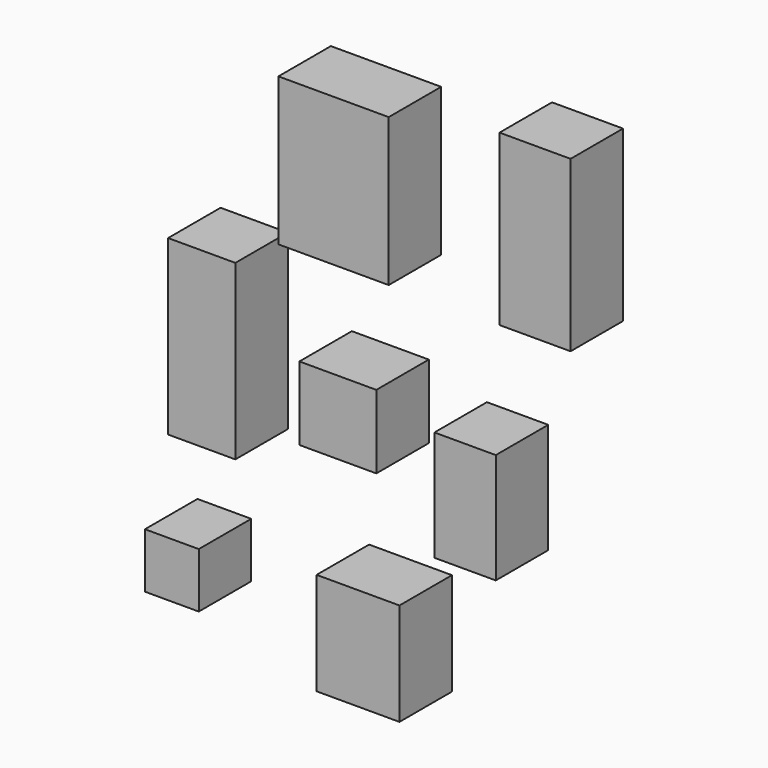
from build123d import *

# Parameters (mm, degrees)
F0_W     = 42.713653
F0_H     = 57.261646
F0_W_2   = 27.503371
F0_H_2   = 65.611295
F0_W_3   = 23.75295
F0_H_3   = 42.732641
F0_W_4   = 32.087333
F0_H_4   = 39.701626
F0_W_5   = 29.795386
F0_H_5   = 28.486781
F0_W_6   = 26.04492
F0_H_6   = 66.996962
F0_W_7   = 20.835944
F0_H_7   = 21.299526
F1_DEPTH = 25.4


with BuildPart() as f1:
    # F0 (on Front) → F1 (new body)
    with BuildSketch(Plane.XZ):
        with Locations((52.194038, 107.370287)):
            Rectangle(F0_W, F0_H)
        with Locations((130.22457, 111.872692)):
            Rectangle(F0_W_2, F0_H_2)
        with Locations((103.137877, 12.89618)):
            Rectangle(F0_W_3, F0_H_3)
        with Locations((61.674346, -48.975356)):
            Rectangle(F0_W_4, F0_H_4)
        with Locations((53.860884, 27.216379)):
            Rectangle(F0_W_5, F0_H_5)
        with Locations((1.145974, 33.498481)):
            Rectangle(F0_W_6, F0_H_6)
        with Locations((-10.417972, -45.834936)):
            Rectangle(F0_W_7, F0_H_7)
    extrude(amount=F1_DEPTH)


solid = f1.part
